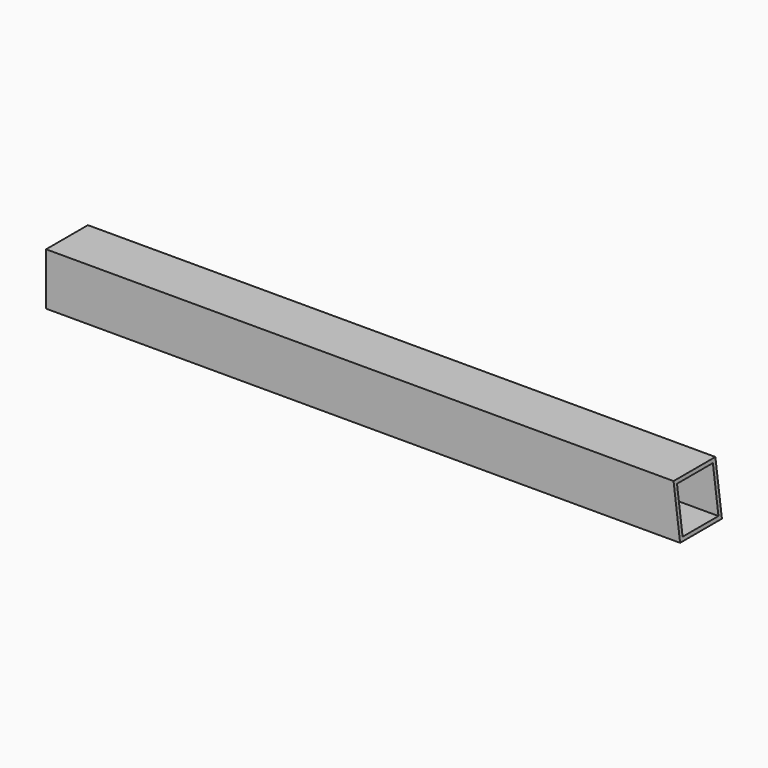
from build123d import *

# Parameters (mm, degrees)
F1_DEPTH = 44.45
F2_W     = 38.1
F2_H     = 38.1
F3_DEPTH = 538.957237


with BuildPart() as f1:
    # F0 (on Front) → F1 (new body)
    with BuildSketch(Plane.XZ):
        Polygon((0, 44.45), (0, 0), (538.956237, 0), (533.4, 44.45), align=None)
    extrude(amount=F1_DEPTH)

    # F2 (on face) → F3 (cut, through all)
    with BuildSketch(Plane(origin=(0, 0, 0), x_dir=(0, -1, 0), z_dir=(-1, 0, 0))):
        with Locations((22.225, 22.225)):
            Rectangle(F2_W, F2_H)
    extrude(amount=-F3_DEPTH, mode=Mode.SUBTRACT)


solid = f1.part
